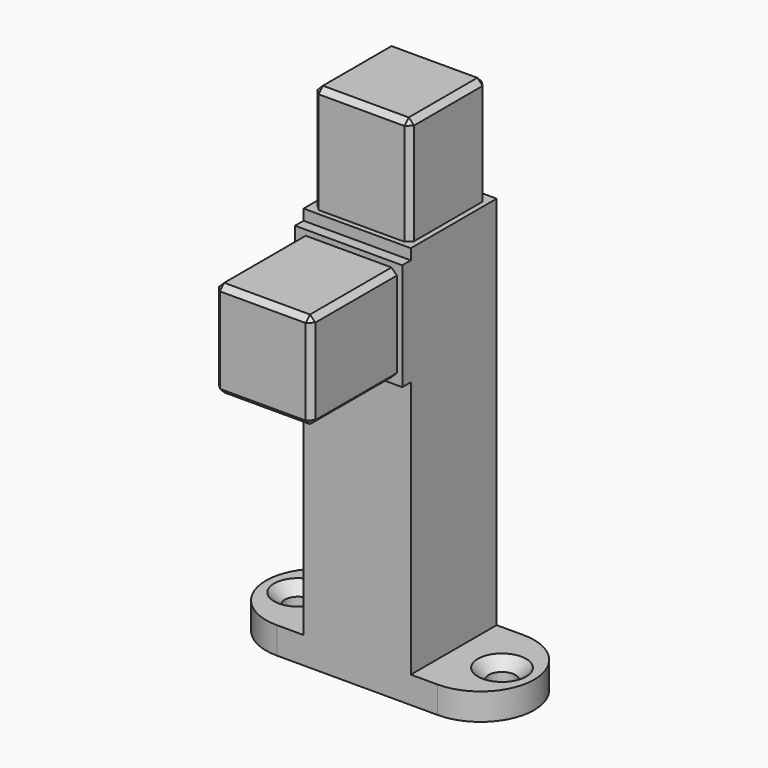
from build123d import *

# Parameters (mm, degrees)
F0_W      = 20
F0_H      = 20
F1_DEPTH  = 70
F0_W_2    = 5
F0_R      = 2.5
F2_DEPTH  = 5
F3_W      = 18
F3_H      = 18
F4_DEPTH  = 20
F5_W      = 20
F5_H      = 20
F6_DEPTH  = 2
F7_SIZE   = 2
F8_SIZE   = 1
F9_W      = 18
F9_H      = 18
F10_DEPTH = 20
F11_SIZE  = 1


with BuildPart() as f1:
    # F0 (on Top) → F1 (new body)
    with BuildSketch(Plane.XY):
        with Locations((15, 10)):
            Rectangle(F0_W, F0_H)
    extrude(amount=F1_DEPTH)

    # F0 (on Top) → F2 (join)
    with BuildSketch(Plane.XY):
        with Locations((2.5, 10)):
            Rectangle(F0_W_2, F0_H)
        with BuildLine():
            ThreePointArc((0, 20), (-10, 10), (0, 0))
            Line((0, 0), (0, 20))
        make_face()
        with Locations((-4, 10)):
            Circle(F0_R, mode=Mode.SUBTRACT)
        with Locations((15, 10)):
            Rectangle(F0_W, F0_H)
        with Locations((27.5, 10)):
            Rectangle(F0_W_2, F0_H)
        with BuildLine():
            Line((30, 20), (30, 0))
            ThreePointArc((30, 0), (40, 10), (30, 20))
        make_face()
        with Locations((34, 10)):
            Circle(F0_R, mode=Mode.SUBTRACT)
    extrude(amount=-F2_DEPTH)

    # F3 (on face) → F4 (join)
    with BuildSketch(Plane.XY.offset(70)):
        with Locations((15, 10)):
            Rectangle(F3_W, F3_H)
    extrude(amount=F4_DEPTH)

    # F5 (on face) → F6 (join)
    with BuildSketch(Plane.XZ):
        with Locations((15, 58)):
            Rectangle(F5_W, F5_H)
    extrude(amount=F6_DEPTH)

    # F7
    f7_edges = [f1.edges().sort_by_distance(p)[0] for p in [
        (31.5, 10, 0),
        (-6.5, 10, 0),
    ]]
    chamfer(f7_edges, length=F7_SIZE)

    # F8
    f8_edges = [f1.edges().sort_by_distance(p)[0] for p in [
        (24, 19, 80),
        (6, 19, 80),
        (15, 19, 90),
        (6, 10, 90),
        (24, 10, 90),
        (15, 1, 90),
        (24, 1, 80),
        (6, 1, 80),
    ]]
    chamfer(f8_edges, length=F8_SIZE)

    # F9 (on face) → F10 (join)
    with BuildSketch(Plane.XZ.offset(2)):
        with Locations((15, 58)):
            Rectangle(F9_W, F9_H)
    extrude(amount=F10_DEPTH)

    # F11
    f11_edges = [f1.edges().sort_by_distance(p)[0] for p in [
        (24, -12, 67),
        (15, -22, 67),
        (6, -12, 67),
        (24, -22, 58),
        (24, -12, 49),
        (6, -12, 49),
        (6, -22, 58),
        (15, -22, 49),
    ]]
    chamfer(f11_edges, length=F11_SIZE)


solid = f1.part
